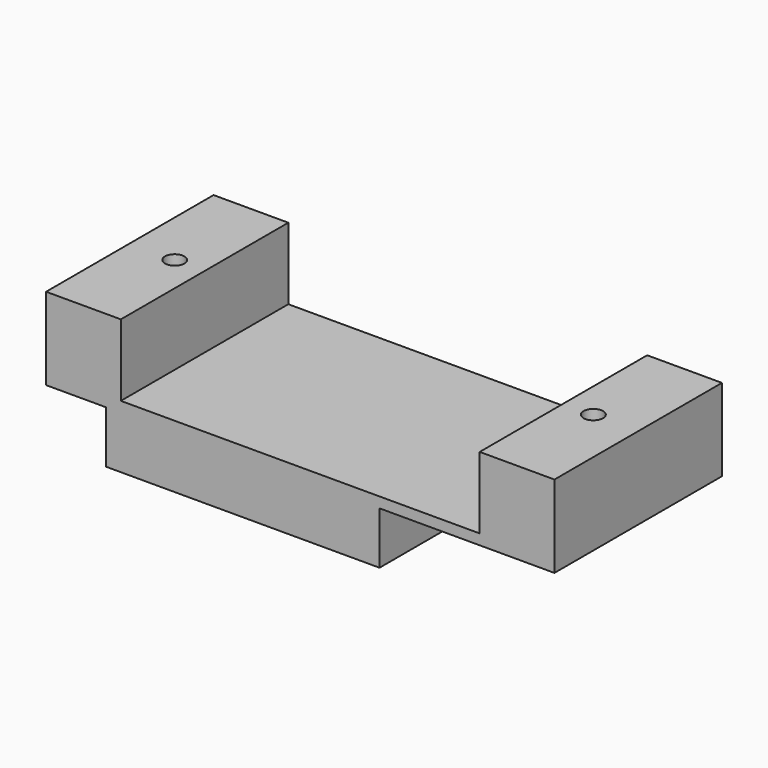
from build123d import *

# Parameters (mm, degrees)
CYLINDER001_R          = 3.5
CYLINDER001_DEPTH      = 4
CYLINDER001_ROLL_ANGLE = 90
CYLINDER003_R          = 0.65
CYLINDER003_DEPTH      = 6
CYLINDER003_ROLL_ANGLE = 90
CYLINDER_R             = 6.5
CYLINDER_DEPTH         = 4
CYLINDER_ROLL_ANGLE    = 90
CYLINDER002_R          = 0.65
CYLINDER002_DEPTH      = 6
CYLINDER002_ROLL_ANGLE = 90
PAD002_DEPTH           = 7
CUT003_ROLL_ANGLE      = 90


with BuildPart() as cylinder001:
    # Cylinder001 → Cylinder001 (new body)
    with BuildSketch(Plane.XY):
        Circle(CYLINDER001_R)
    extrude(amount=CYLINDER001_DEPTH)


with BuildPart() as cylinder001_1:
    # Cylinder001 roll: moved
    add(cylinder001.part.rotate(Axis((0, 0, 0), (1, 0, 0)), CYLINDER001_ROLL_ANGLE))


with BuildPart() as cylinder001_2:
    # Cylinder001 placement: moved
    add(cylinder001_1.part.moved(Location((0.57, -7, 0))))


with BuildPart() as cylinder003:
    # Cylinder003 → Cylinder003 (new body)
    with BuildSketch(Plane.XY):
        Circle(CYLINDER003_R)
    extrude(amount=CYLINDER003_DEPTH)


with BuildPart() as cylinder003_1:
    # Cylinder003 roll: moved
    add(cylinder003.part.rotate(Axis((0, 0, 0), (1, 0, 0)), CYLINDER003_ROLL_ANGLE))


with BuildPart() as cylinder003_2:
    # Cylinder003 placement: moved
    add(cylinder003_1.part.moved(Location((14, -1, 0))))


with BuildPart() as cylinder:
    # Cylinder → Cylinder (new body)
    with BuildSketch(Plane.XY):
        Circle(CYLINDER_R)
    extrude(amount=CYLINDER_DEPTH)


with BuildPart() as cylinder_1:
    # Cylinder roll: moved
    add(cylinder.part.rotate(Axis((0, 0, 0), (1, 0, 0)), CYLINDER_ROLL_ANGLE))


with BuildPart() as cylinder_2:
    # Cylinder placement: moved
    add(cylinder_1.part.moved(Location((-5.43, -7, 0))))


with BuildPart() as fusion001:
    # Cylinder002 → Cylinder002 (new body)
    with BuildSketch(Plane.XY):
        Circle(CYLINDER002_R)
    extrude(amount=CYLINDER002_DEPTH)


with BuildPart() as fusion001_1:
    # Cylinder002 roll: moved
    add(fusion001.part.rotate(Axis((0, 0, 0), (1, 0, 0)), CYLINDER002_ROLL_ANGLE))


with BuildPart() as fusion001_2:
    # Cylinder002 placement: moved
    add(fusion001_1.part.moved(Location((-14, -1, 0))))

    # Fusion001: union Cylinder001, Cylinder003, Cylinder
    add(cylinder001_2.part)
    add(cylinder003_2.part)
    add(cylinder_2.part)


with BuildPart() as cut003:
    # Sketch → Pad002 (new body, symmetric)
    with BuildSketch(Plane.XY):
        Polygon((-17, -1.5), (-12, -1.5), (-12, -6.3), (12, -6.3), (12, -1.5), (17, -1.5), (17, -7), (5.3, -7), (5.3, -10.5), (-13, -10.5), (-13, -7), (-17, -7), align=None)
    extrude(amount=PAD002_DEPTH, both=True)

    # Cut003: cut Fusion001
    add(fusion001_2.part, mode=Mode.SUBTRACT)


with BuildPart() as cut003_1:
    # Cut003 roll: moved
    add(cut003.part.rotate(Axis((0, 0, 0), (1, 0, 0)), CUT003_ROLL_ANGLE))


with BuildPart() as cut003_2:
    # Cut003 placement: moved
    add(cut003_1.part.moved(Location((0, 28, -25))))


solid = cut003_2.part
